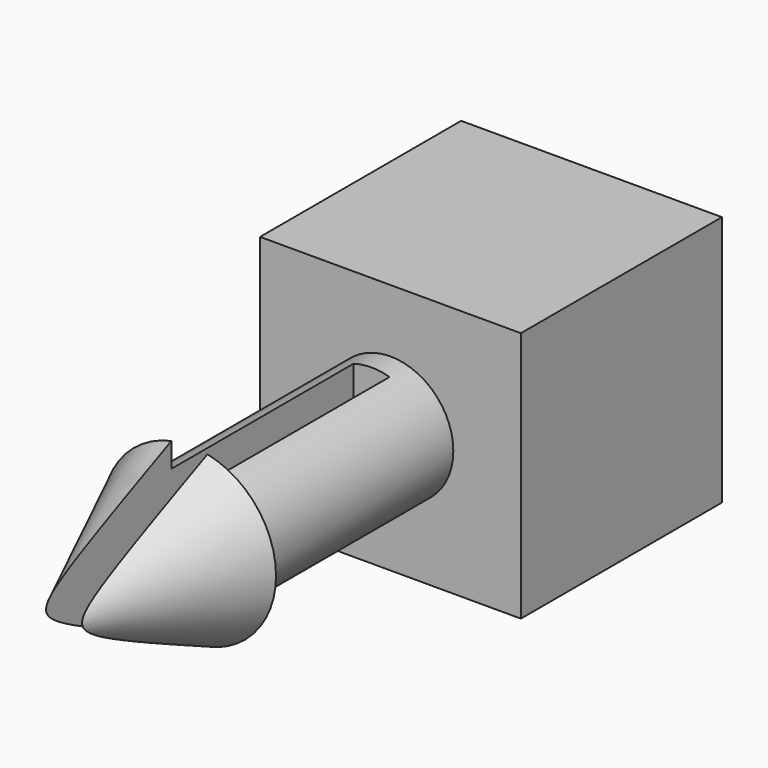
from build123d import *

# Parameters (mm, degrees)
F0_W      = 13.1792449958
F0_H      = 12.7
F1_DEPTH  = 12.7
F2_R      = 3.175
F3_DEPTH  = 12.7
F7_R      = 4.375
F9_W      = 1.821417918
F9_H      = 11
F10_DEPTH = 21.5


with BuildPart() as f1:
    # F0 (on Front) → F1 (new body)
    with BuildSketch(Plane.XZ):
        Rectangle(F0_W, F0_H)
    extrude(amount=F1_DEPTH)

    # F2 (on face) → F3 (join)
    with BuildSketch(Plane.XZ.offset(12.7)):
        Circle(F2_R)
    extrude(amount=F3_DEPTH)

    # F7 (on offset) → F8 section 0
    with BuildSketch(Plane.XZ.offset(25.4), mode=Mode.PRIVATE) as f8_s0:
        Circle(F7_R)
    loft([f8_s0.sketch, Vertex(0, -35.4, 0)])

    # F9 (on offset) → F10 (cut)
    with BuildSketch(Plane.XZ.offset(35.4)):
        Rectangle(F9_W, F9_H)
    extrude(amount=-F10_DEPTH, mode=Mode.SUBTRACT)


solid = f1.part
